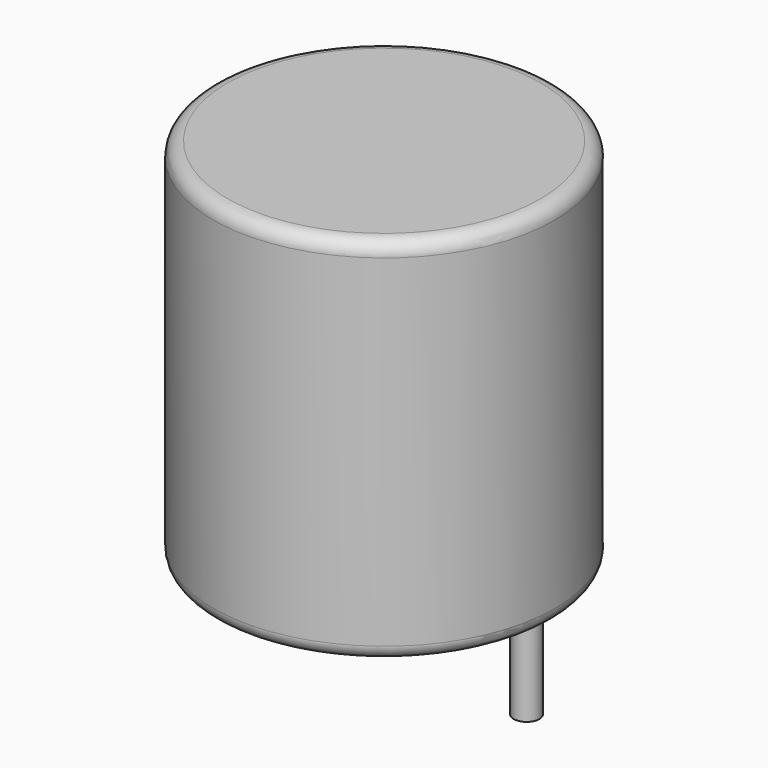
from build123d import *

# Parameters (mm, degrees)
SKETCH001_R       = 0.45
PAD001_DEPTH      = 6.5
PAD001_DEPTH_BACK = 3.5
SKETCH_R          = 6
PAD_DEPTH         = 13
FILLET_R          = 0.5


with BuildPart() as pad001:
    # Sketch001 → Pad001 (new body, two sides)
    with BuildSketch(Plane.XY.offset(0.5)) as pad001_sk:
        Circle(SKETCH001_R)
        with Locations((10, 0)):
            Circle(SKETCH001_R)
    extrude(amount=PAD001_DEPTH)
    extrude(pad001_sk.sketch, amount=-PAD001_DEPTH_BACK)


with BuildPart() as fillet_body:
    # Sketch → Pad (new body)
    with BuildSketch(Plane.XY.offset(0.1)):
        with Locations((5, 0)):
            Circle(SKETCH_R)
    extrude(amount=PAD_DEPTH)

    # Fillet
    fillet_edges = [fillet_body.edges().sort_by_distance(p)[0] for p in [
        (-1, 0, 0.1),
        (-1, 0, 13.1),
    ]]
    fillet(fillet_edges, radius=FILLET_R)


solid = Compound([pad001.part, fillet_body.part])
